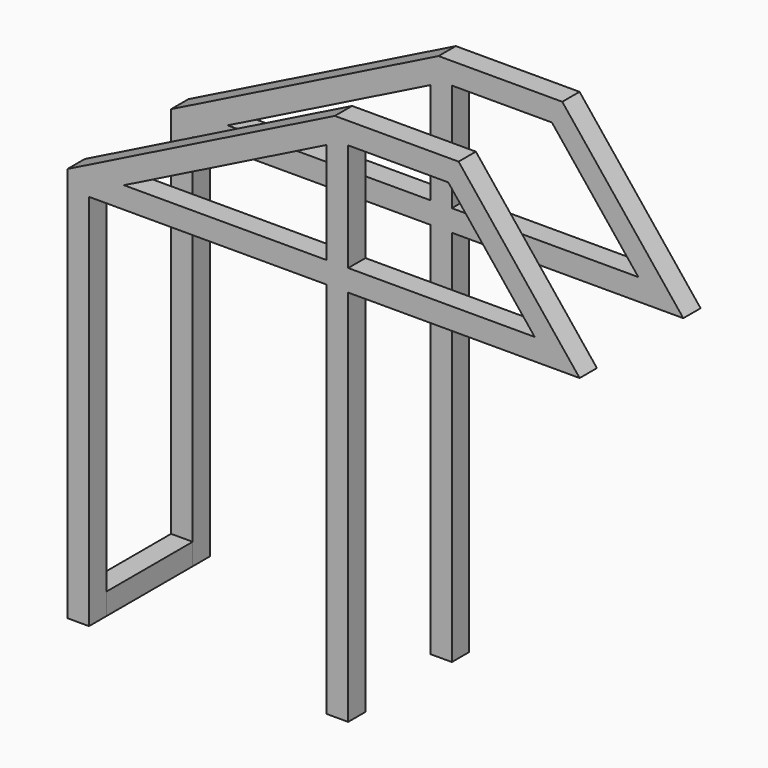
from build123d import *

# Parameters (mm, degrees)
F1_W           = 50.8
F1_H           = 50.8
F3_W           = 50.8
F3_H           = 50.8
F6_DEPTH       = 25.401
F6_DEPTH_BACK  = 25.401
F9_W           = 50.8
F9_H           = 50.8
F10_DEPTH      = 127
F10_DEPTH_BACK = 127


with BuildPart() as f2:
    # F2: sweep along a path in F0
    with BuildLine(Plane.XZ) as f2_path:
        Line((0, 0), (0, 914.4))
        Line((0, 914.4), (609.6, 1219.2))
        Line((609.6, 1219.2), (609.6, 0))
    # F1 (on Top) → F2 (sweep)
    with BuildSketch(Plane.XY):
        Rectangle(F1_W, F1_H)
    sweep(path=f2_path.line, transition=Transition.RIGHT)

    # F4: sweep along a path in F0
    with BuildLine(Plane.XZ) as f4_path:
        Line((0, 914.4), (609.6, 914.4))
        Line((609.6, 914.4), (1126.4953613281, 914.4))
        Line((1126.4953613281, 914.4), (882.4702501297, 1219.2))
        Line((882.4702501297, 1219.2), (609.6, 1219.2))
    # F3 (on Right) → F4 (sweep)
    with BuildSketch(Plane.YZ):
        with Locations((0, 914.4)):
            Rectangle(F3_W, F3_H)
    sweep(path=f4_path.line, transition=Transition.RIGHT)

    # F5 (on Front) → F6 (cut, two sides)
    with BuildSketch(Plane.XZ) as f6_sk:
        Polygon((603.6038733715, 1244.6), (635, 1244.6), (635, 1260.2980633142), align=None)
    extrude(amount=-F6_DEPTH, mode=Mode.SUBTRACT)
    extrude(f6_sk.sketch, amount=F6_DEPTH_BACK, mode=Mode.SUBTRACT)


with BuildPart() as f8_1:
    # F8: instance of F2
    add(f2.part.mirror(Plane.XZ.offset(152.4)))


with BuildPart() as f10:
    # F9 (on offset) → F10 (new body, two sides)
    with BuildSketch(Plane.XZ.offset(152.4)) as f10_sk:
        with Locations((0, 25.4)):
            Rectangle(F9_W, F9_H)
    extrude(amount=F10_DEPTH)
    extrude(f10_sk.sketch, amount=-F10_DEPTH_BACK)


solid = Compound([f2.part, f8_1.part, f10.part])
